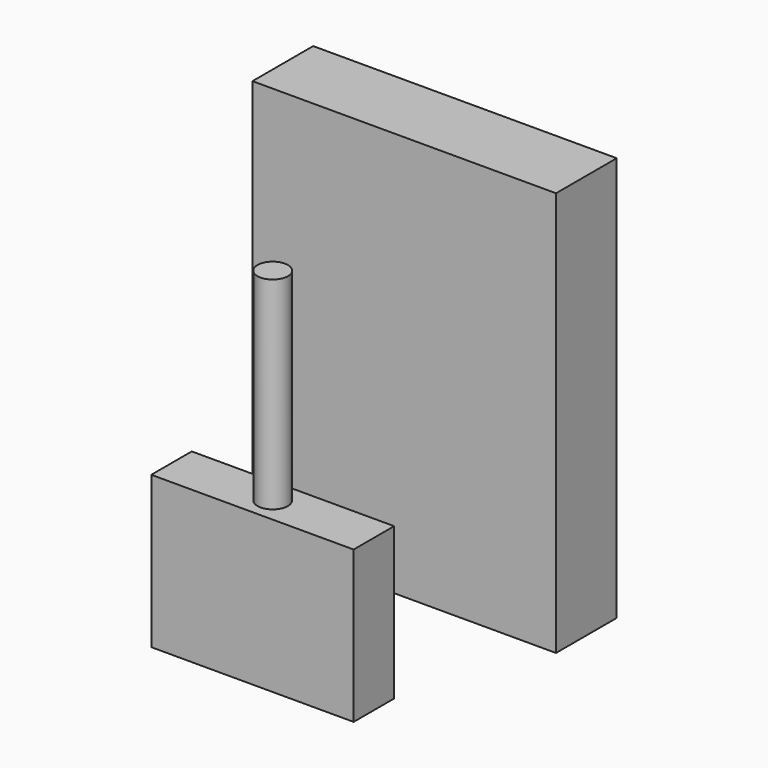
from build123d import *

# Parameters (mm, degrees)
F0_W      = 38.1
F0_H      = 9.525
F3_DEPTH  = 50.8
F2_W      = 31.75
F2_H      = 6.35
F4_DEPTH  = 47.752
F5_W      = 13.97
F5_H      = 6.35
F6_DEPTH  = 25.4
F7_W      = 31.75
F7_H      = 0.762
F8_DEPTH  = 48.26
F10_W     = 25.4
F10_H     = 6.35
F11_DEPTH = 19.05
F12_R     = 1.905
F13_DEPTH = 25.4


with BuildPart() as f3:
    # F0 (on Top) → F3 (new body)
    with BuildSketch(Plane.XY):
        Rectangle(F0_W, F0_H)
    extrude(amount=-F3_DEPTH)

    # F2 (on offset) → F4 (cut)
    with BuildSketch(Plane.XY.offset(-2.54)):
        Rectangle(F2_W, F2_H)
    extrude(amount=-F4_DEPTH, mode=Mode.SUBTRACT)

    # F5 (on face) → F6 (cut)
    with BuildSketch(Plane(origin=(0, 0, -50.8), x_dir=(1, 0, 0), z_dir=(0, 0, -1))):
        Rectangle(F5_W, F5_H)
    extrude(amount=-F6_DEPTH, mode=Mode.SUBTRACT)

    # F7 (on face) → F8 (cut)
    with BuildSketch(Plane(origin=(0, 0, -50.8), x_dir=(1, 0, 0), z_dir=(0, 0, -1))):
        with Locations((0, 3.556)):
            Rectangle(F7_W, F7_H)
        with Locations((0, -3.556)):
            Rectangle(F7_W, F7_H)
    extrude(amount=-F8_DEPTH, mode=Mode.SUBTRACT)


with BuildPart() as f11:
    # F10 (on offset) → F11 (new body)
    with BuildSketch(Plane.XY.offset(-50.8)):
        with Locations((0, -25.4)):
            Rectangle(F10_W, F10_H)
    extrude(amount=F11_DEPTH)

    # F12 (on face) → F13 (join)
    with BuildSketch(Plane.XY.offset(-31.75)):
        with Locations((0, -25.4)):
            Circle(F12_R)
    extrude(amount=F13_DEPTH)


solid = Compound([f3.part, f11.part])
